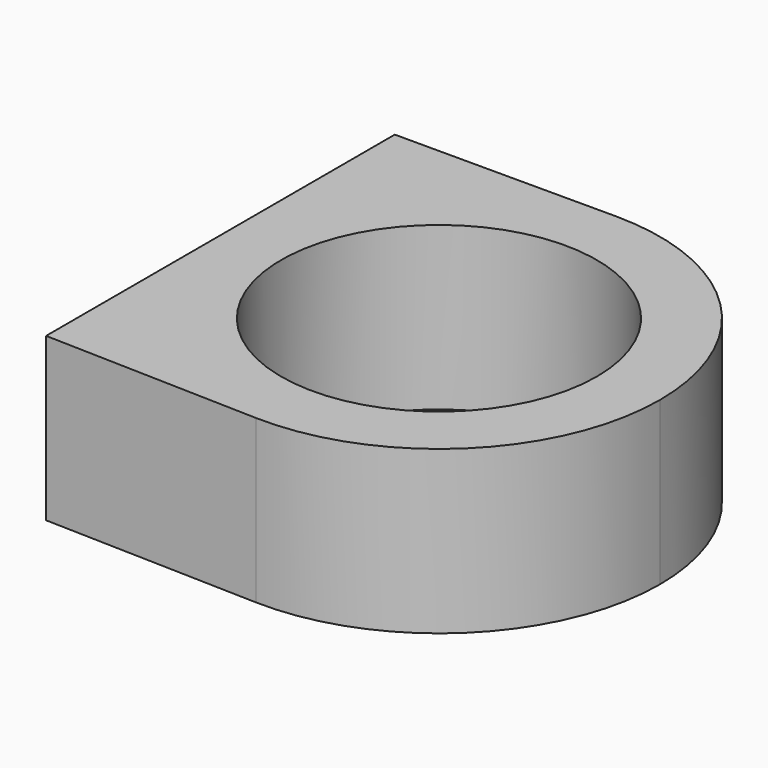
from build123d import *

# Parameters (mm, degrees)
F0_R     = 8.75
F1_DEPTH = 9


with BuildPart() as f1:
    # F0 (on Top) → F1 (new body)
    with BuildSketch(Plane.XY):
        with BuildLine():
            ThreePointArc((-55.6193343453, 33.109774836), (-52.0313924148, 41.7718329055), (-43.3693343453, 45.359774836))
            Line((-43.3693343453, 45.359774836), (-55.6193343453, 45.359774836))
            Line((-55.6193343453, 45.359774836), (-55.6193343453, 33.109774836))
        make_face()
        with BuildLine():
            Line((-55.6193343453, 21.200132486), (-43.7144180841, 20.8646363225))
            ThreePointArc((-43.7144180841, 20.8646363225), (-52.152550607, 24.570593839), (-55.6193343453, 33.109774836))
            Line((-55.6193343453, 33.109774836), (-55.6193343453, 21.200132486))
        make_face()
        with BuildLine():
            ThreePointArc((-43.7144180841, 20.8646363225), (-34.8301533483, 24.3265585742), (-31.1193343453, 33.109774836))
            ThreePointArc((-31.1193343453, 33.109774836), (-34.7072762757, 41.7718329055), (-43.3693343453, 45.359774836))
            ThreePointArc((-43.3693343453, 45.359774836), (-52.0313924148, 41.7718329055), (-55.6193343453, 33.109774836))
            ThreePointArc((-55.6193343453, 33.109774836), (-52.152550607, 24.570593839), (-43.7144180841, 20.8646363225))
        make_face()
        with Locations((-43.3693343453, 33.109774836)):
            Circle(F0_R, mode=Mode.SUBTRACT)
    extrude(amount=F1_DEPTH)


solid = f1.part
